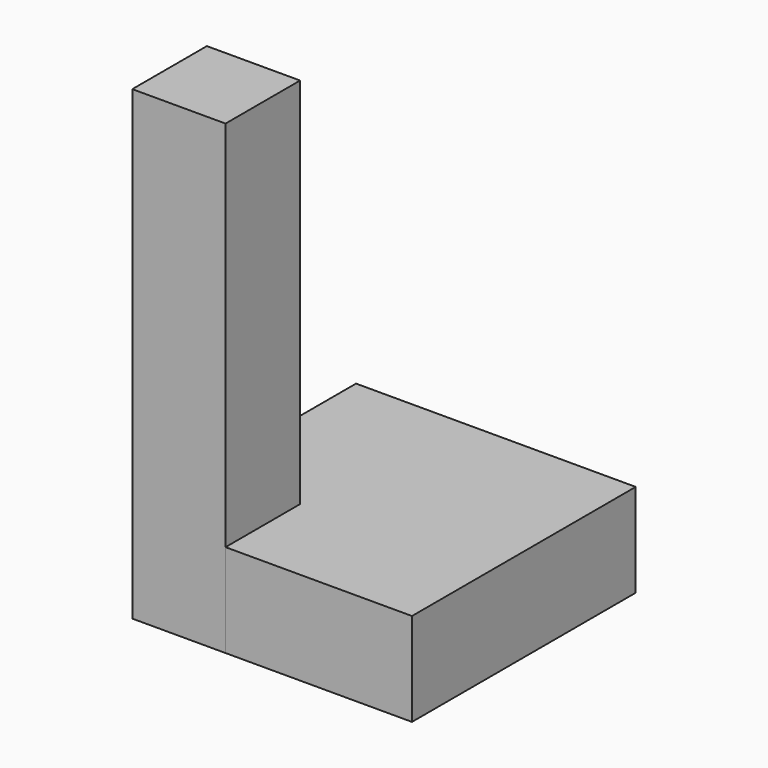
from build123d import *

# Parameters (mm, degrees)
BOX_W        = 30
BOX_H        = 30
BOX_DEPTH    = 10
BOX001_W     = 10
BOX001_H     = 10
BOX001_DEPTH = 50


with BuildPart() as box:
    # Box → Box (new body)
    with BuildSketch(Plane.XY):
        with Locations((15, 15)):
            Rectangle(BOX_W, BOX_H)
    extrude(amount=BOX_DEPTH)


with BuildPart() as box001:
    # Box001 → Box001 (new body)
    with BuildSketch(Plane.XY):
        with Locations((5, 5)):
            Rectangle(BOX001_W, BOX001_H)
    extrude(amount=BOX001_DEPTH)


solid = Compound([box.part, box001.part])
